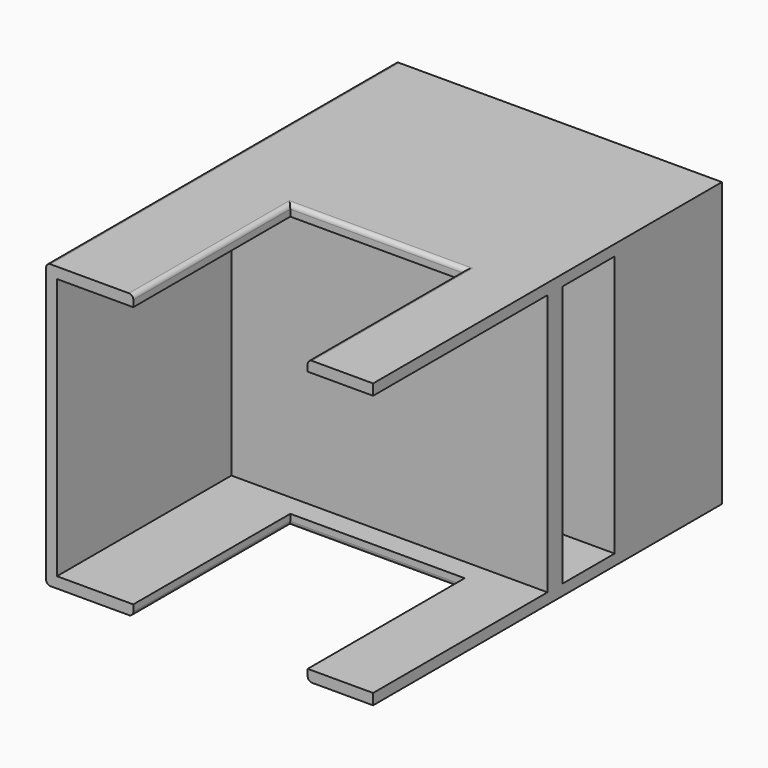
from build123d import *

# Parameters (mm, degrees)
F1_DEPTH = 25.4
F2_W     = 76.2
F2_H     = 12.7
F3_DEPTH = 228.6
F4_W     = 368.3
F4_H     = 304.8
F5_DEPTH = 254
F6_R     = 5.08
F7_W     = 76.2
F7_H     = 304.8
F8_DEPTH = 304.8


with BuildPart() as f1:
    # F0 (on Front) → F1 (new body)
    with BuildSketch(Plane.XZ):
        Polygon((-171.4616481543, -66.9675160527), (-171.4616481543, 237.8324839473), (196.8383518457, 237.8324839473), (196.8383518457, 250.5324839473), (-184.1616481543, 250.5324839473), (-184.1616481543, -79.6675160527), (196.8383518457, -79.6675160527), (196.8383518457, -66.9675160527), align=None)
    extrude(amount=F1_DEPTH)

    # F2 (on face) → F3 (join)
    with BuildSketch(Plane.XZ.offset(25.4)):
        Polygon((-82.5616481543, 237.8324839473), (-82.5616481543, 250.5324839473), (-184.1616481543, 250.5324839473), (-184.1616481543, -79.6675160527), (-82.5616481543, -79.6675160527), (-82.5616481543, -66.9675160527), (-171.4616481543, -66.9675160527), (-171.4616481543, 237.8324839473), align=None)
        with Locations((158.7383518457, 244.1824839473)):
            Rectangle(F2_W, F2_H)
        with Locations((158.7383518457, -73.3175160527)):
            Rectangle(F2_W, F2_H)
    extrude(amount=F3_DEPTH)

    # F4 (on face) → F5 (join)
    with BuildSketch(Plane(origin=(0, 0, 0), x_dir=(-1, 0, 0), z_dir=(0, 1, 0))):
        with Locations((-12.6883518457, 85.4324839473)):
            Rectangle(F4_W, F4_H)
        Polygon((184.1616481543, 250.5324839473), (-196.8383518457, 250.5324839473), (-196.8383518457, 237.8324839473), (171.4616481543, 237.8324839473), (171.4616481543, -66.9675160527), (-196.8383518457, -66.9675160527), (-196.8383518457, -79.6675160527), (184.1616481543, -79.6675160527), align=None)
    extrude(amount=F5_DEPTH)

    # F6
    f6_edges = [f1.edges().sort_by_distance(p)[0] for p in [
        (-184.161648, 0, -79.667516),
        (-184.161648, 0, 250.532484),
        (-82.561648, -139.7, -79.667516),
        (120.638352, -139.7, -79.667516),
        (19.038352, -25.4, -79.667516),
        (120.638352, -139.7, 250.532484),
        (19.038352, -25.4, 250.532484),
        (-82.561648, -139.7, 250.532484),
    ]]
    fillet(f6_edges, radius=F6_R)

    # F7 (on face) → F8 (cut)
    with BuildSketch(Plane.YZ.offset(196.8383518457)):
        with Locations((59.6839594603, 85.4324839473)):
            Rectangle(F7_W, F7_H)
    extrude(amount=-F8_DEPTH, mode=Mode.SUBTRACT)


solid = f1.part
